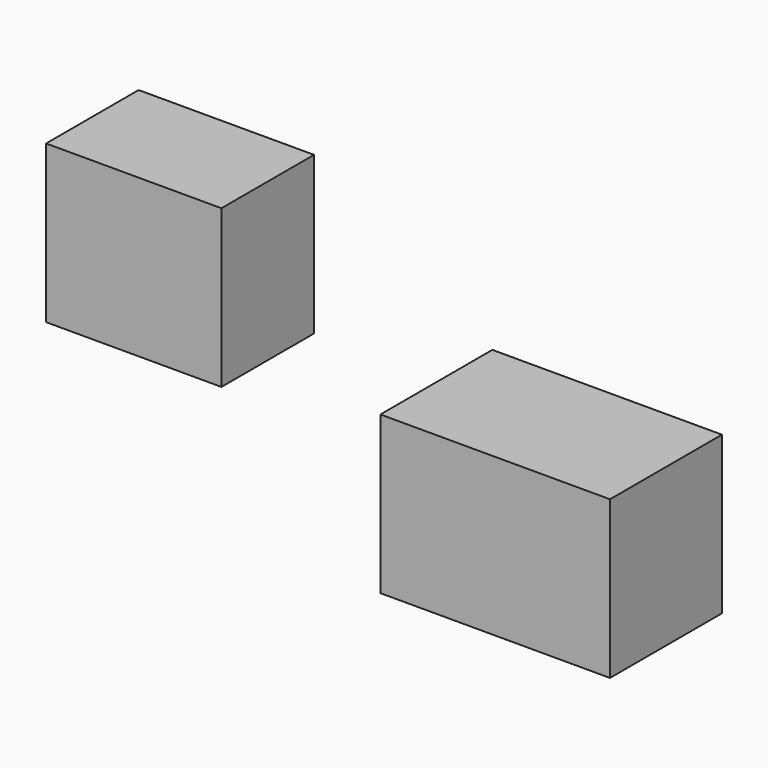
from build123d import *

# Parameters (mm, degrees)
F0_W     = 69.332383
F0_H     = 45.74196
F0_W_2   = 90.764345
F0_H_2   = 55.322673
F1_DEPTH = 62.2


with BuildPart() as f1:
    # F0 (on Top) → F1 (new body)
    with BuildSketch(Plane.XY):
        with Locations((-138.979602, 22.87098)):
            Rectangle(F0_W, F0_H)
        with Locations((65.519824, -49.344721)):
            Rectangle(F0_W_2, F0_H_2)
    extrude(amount=F1_DEPTH)


solid = f1.part
